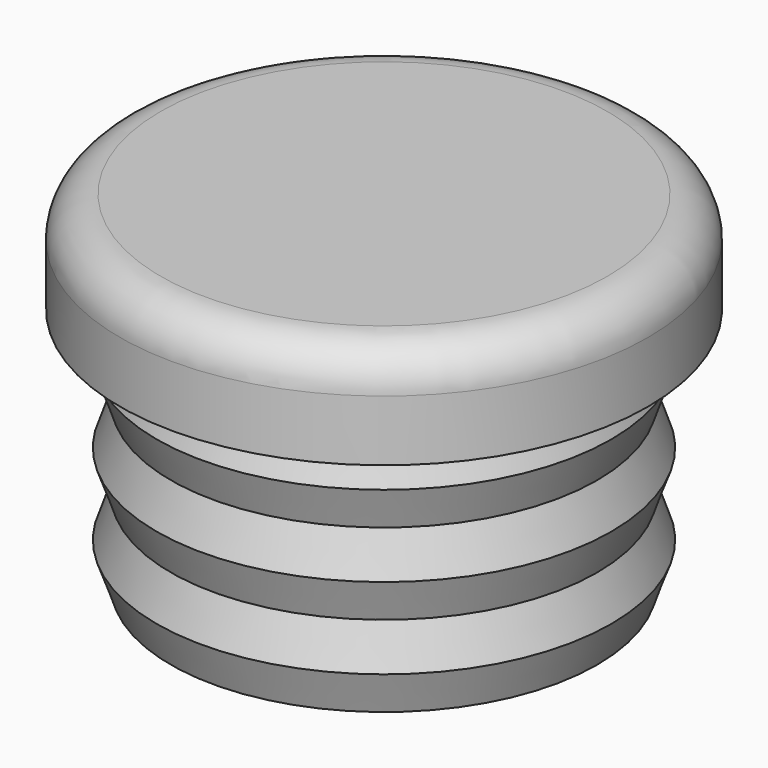
from build123d import *

# Parameters (mm, degrees)
FILLET_R = 2


with BuildPart() as part:
    # Sketch → Revolution (revolve)
    with BuildSketch(Plane.XZ):
        Polygon((0, 5), (13, 5), (13, 0), (10.5, 0), (11.2, -2), (10.5, -4), (11.2, -6), (10.5, -8), (11.2, -10), (10.5, -12), (9, -12), (9, 0), (0, 0), align=None)
    revolve(axis=Axis((0, 0, 0), (0, 0, 1)))

    # Fillet
    fillet_edges = [part.edges().sort_by_distance(p)[0] for p in [
        (-13, 0, 5),
    ]]
    fillet(fillet_edges, radius=FILLET_R)


solid = part.part
